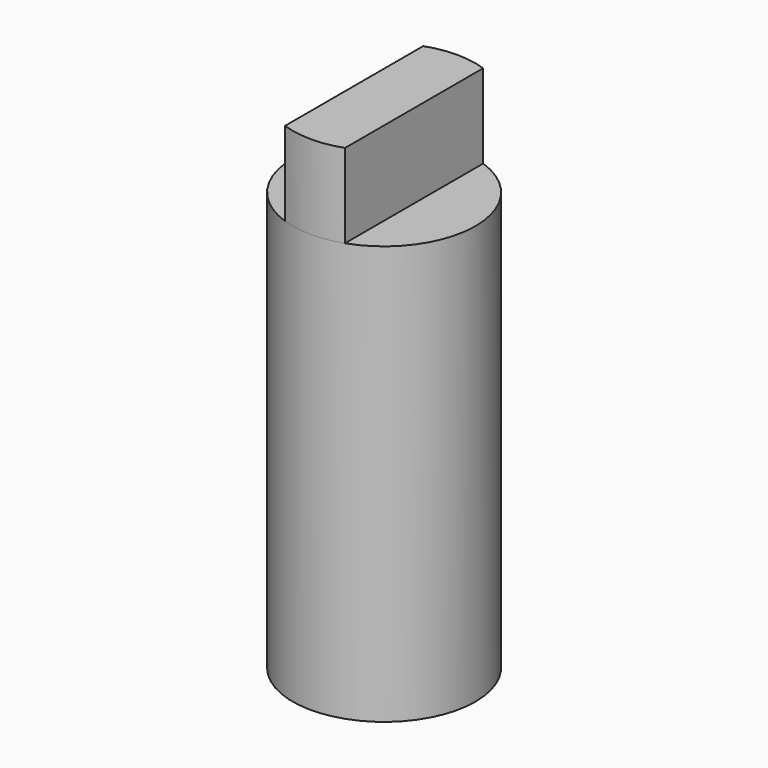
from build123d import *

# Parameters (mm, degrees)
F0_R     = 7.625
F1_DEPTH = 34.925
F2_DEPTH = 9.525
F3_DEPTH = 22.225
F5_DEPTH = 7


with BuildPart() as f1:
    # F0 (on Top) → F1 (new body)
    with BuildSketch(Plane.XY):
        Circle(F0_R)
        with BuildLine():
            ThreePointArc((5.0990195136, 2.375), (5.4919308883, 1.2162730442), (5.625, 0))
            ThreePointArc((5.625, 0), (-1.2162730442, -5.4919308883), (-5.0990195136, 2.375))
            ThreePointArc((-5.0990195136, 2.375), (0, 5.625), (5.0990195136, 2.375))
        make_face(mode=Mode.SUBTRACT)
        with BuildLine():
            ThreePointArc((-5.0990195136, 2.375), (-1.2162730442, -5.4919308883), (5.625, 0))
            ThreePointArc((5.625, 0), (5.4919308883, 1.2162730442), (5.0990195136, 2.375))
            Line((5.0990195136, 2.375), (-5.0990195136, 2.375))
        make_face()
        with BuildLine():
            Line((-5.0990195136, 2.375), (5.0990195136, 2.375))
            ThreePointArc((5.0990195136, 2.375), (0, 5.625), (-5.0990195136, 2.375))
        make_face()
    extrude(amount=F1_DEPTH)

    # F0 (on Top) → F2 (cut)
    with BuildSketch(Plane.XY):
        with BuildLine():
            ThreePointArc((-5.0990195136, 2.375), (-1.2162730442, -5.4919308883), (5.625, 0))
            ThreePointArc((5.625, 0), (5.4919308883, 1.2162730442), (5.0990195136, 2.375))
            Line((5.0990195136, 2.375), (-5.0990195136, 2.375))
        make_face()
        with BuildLine():
            Line((-5.0990195136, 2.375), (5.0990195136, 2.375))
            ThreePointArc((5.0990195136, 2.375), (0, 5.625), (-5.0990195136, 2.375))
        make_face()
    extrude(amount=F2_DEPTH, mode=Mode.SUBTRACT)

    # F0 (on Top) → F3 (cut)
    with BuildSketch(Plane.XY):
        with BuildLine():
            ThreePointArc((-5.0990195136, 2.375), (-1.2162730442, -5.4919308883), (5.625, 0))
            ThreePointArc((5.625, 0), (5.4919308883, 1.2162730442), (5.0990195136, 2.375))
            Line((5.0990195136, 2.375), (-5.0990195136, 2.375))
        make_face()
    extrude(amount=F3_DEPTH, mode=Mode.SUBTRACT)

    # F4 (on face) → F5 (join)
    with BuildSketch(Plane.XY.offset(34.925)):
        with BuildLine():
            Line((2.5, -7.2035147671), (2.5, 7.2035147671))
            ThreePointArc((2.5, 7.2035147671), (0, 7.625), (-2.5, 7.2035147671))
            Line((-2.5, 7.2035147671), (-2.5, -7.2035147671))
            ThreePointArc((-2.5, -7.2035147671), (0, -7.625), (2.5, -7.2035147671))
        make_face()
    extrude(amount=F5_DEPTH)


solid = f1.part
